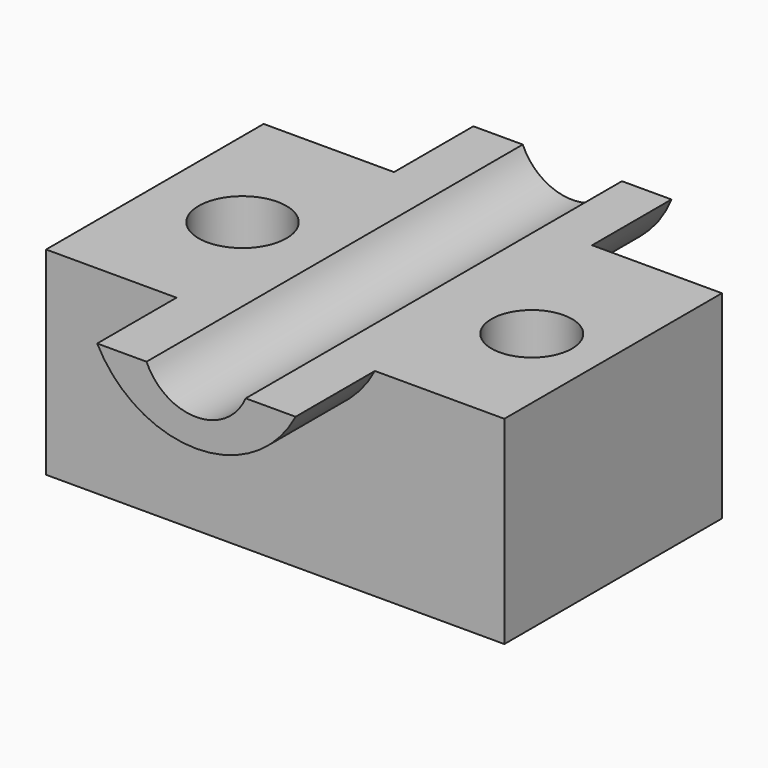
from build123d import *

# Parameters (mm, degrees)
F0_W      = 117.3750758171
F0_H      = 69.6533750743
F1_DEPTH  = 50.8
F3_DEPTH  = 25.4
F4_DEPTH  = 82.804
F6_DEPTH  = 25.4
F8_R      = 10.3010134133
F9_DEPTH  = 146.558
F7_R      = 11.2481723065
F10_DEPTH = 101.6


with BuildPart() as f1:
    # F0 (on Top) → F1 (new body)
    with BuildSketch(Plane.XY):
        with Locations((14.7226527333, 5.685989745)):
            Rectangle(F0_W, F0_H)
    extrude(amount=F1_DEPTH)

    # F2 (on face) → F3 (join)
    with BuildSketch(Plane.XZ.offset(29.1406977922)):
        with BuildLine():
            Line((2.0829490386, 50.8), (-10.5567546561, 50.8))
            ThreePointArc((-10.5567546561, 50.8), (14.8472036235, 35.3357176843), (40.2511619031, 50.8))
            Line((40.2511619031, 50.8), (27.4869073182, 50.8))
            ThreePointArc((27.4869073182, 50.8), (14.7849281784, 42.4531644715), (2.0829490386, 50.8))
        make_face()
    extrude(amount=F3_DEPTH)

    # F4 (cut): a face of the model
    f4_faces = [f1.faces().sort_by_distance(p)[0] for p in [
        (14.7849281784, -29.1406977922, 47.3563909232),
    ]]
    extrude(f4_faces, amount=-F4_DEPTH, mode=Mode.SUBTRACT)

    # F5 (on face) → F6 (join)
    with BuildSketch(Plane(origin=(0, 40.5126772821, 0), x_dir=(-1, 0, 0), z_dir=(0, 1, 0))):
        with BuildLine():
            ThreePointArc((-2.0829490386, 50.8), (-14.7849281784, 42.4531644715), (-27.4869073182, 50.8))
            Line((-27.4869073182, 50.8), (-40.1620790362, 50.8))
            ThreePointArc((-40.1620790362, 50.8), (-14.7955128923, 33.6886739467), (10.5710532516, 50.8))
            Line((10.5710532516, 50.8), (-2.0829490386, 50.8))
        make_face()
    extrude(amount=F6_DEPTH)

    # F8 (on face) → F9 (cut)
    with BuildSketch(Plane.XY.offset(50.8)):
        with Locations((54.6979308128, 3.0329860747)):
            Circle(F8_R)
    extrude(amount=-F9_DEPTH, mode=Mode.SUBTRACT)

    # F7 (on face) → F10 (cut)
    with BuildSketch(Plane.XY.offset(50.8)):
        with Locations((-20.6904988736, 4.6597607434)):
            Circle(F7_R)
    extrude(amount=-F10_DEPTH, mode=Mode.SUBTRACT)


solid = f1.part
